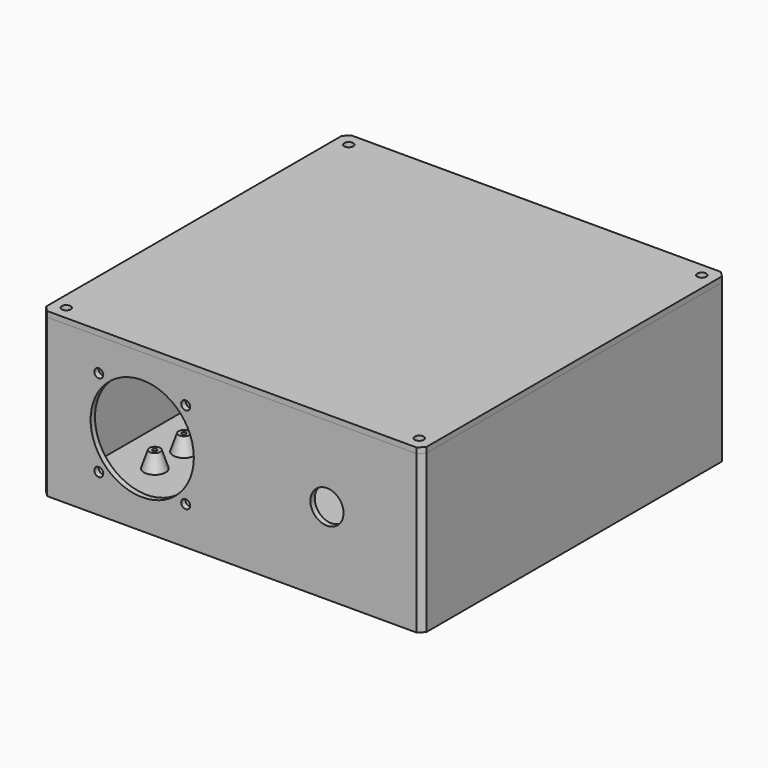
from build123d import *

# Parameters (mm, degrees)
SKETCH_W             = 140
SKETCH_H             = 140
PAD_DEPTH            = 2
SKETCH004_R          = 2.75
SKETCH004_R_2        = 1.25
PAD002_DEPTH         = 6
CHAMFER_SIZE2        = 5.999
CHAMFER_SIZE         = 2
SKETCH006_W          = 140
SKETCH006_H          = 140
SKETCH006_W_2        = 136
SKETCH006_H_2        = 136
PAD003_DEPTH         = 56
SKETCH007_W          = 10
SKETCH007_H          = 10
SKETCH007_R          = 1.25
PAD004_DEPTH         = 56
FILLET_R             = 5
SKETCH008_R          = 1.65
SKETCH008_R_2        = 19
POCKET_DEPTH         = 70.001
POCKET_DEPTH_BACK    = 70.001
SKETCH009_W          = 12.3
SKETCH009_H          = 12.2
POCKET001_DEPTH      = 140
SKETCH010_R          = 5.75
POCKET002_DEPTH      = 2
SKETCH011_R          = 6.1
POCKET003_DEPTH      = 140
SKETCH016_W          = 20
SKETCH016_H          = 12
POCKET005_DEPTH      = 140
CHAMFER001_SIZE      = 2
SKETCH019_R          = 2
SKETCH019_R_2        = 0.8
PAD008_DEPTH         = 6
CHAMFER004_SIZE2     = 5.9999
CHAMFER004_SIZE      = 2
SKETCH012_W          = 140
SKETCH012_H          = 140
PAD005_DEPTH         = 2
SKETCH013_W          = 120
SKETCH013_H          = 2
SKETCH013_W_2        = 2
SKETCH013_H_2        = 120
PAD006_DEPTH         = 2
SKETCH014_R          = 1.65
POCKET004_DEPTH      = 4.001
POCKET004_DEPTH_BACK = 0.001
CHAMFER002_SIZE      = 2
SKETCH017_W          = 22
SKETCH017_H          = 41.5
SKETCH017_W_2        = 16
SKETCH017_H_2        = 35.5
PAD007_DEPTH         = 25
SKETCH018_R          = 1.65
POCKET006_DEPTH      = 5
CHAMFER003_SIZE      = 1


with BuildPart() as box:
    # Sketch → Pad (new body)
    with BuildSketch(Plane.XY):
        Rectangle(SKETCH_W, SKETCH_H)
    extrude(amount=PAD_DEPTH)

    # Sketch004 → Pad002 (join)
    with BuildSketch(Plane(origin=(-34, 25, 2), x_dir=(0, 1, 0), z_dir=(0, 0, 1))):
        with Locations((-19.25, -34.7)):
            Circle(SKETCH004_R)
        with Locations((-19.25, -34.7)):
            Circle(SKETCH004_R_2, mode=Mode.SUBTRACT)
        with Locations((8.65, -34.7)):
            Circle(SKETCH004_R)
        with Locations((8.65, -34.7)):
            Circle(SKETCH004_R_2, mode=Mode.SUBTRACT)
        with Locations((-23.95, 17.2)):
            Circle(SKETCH004_R)
        with Locations((-23.95, 17.2)):
            Circle(SKETCH004_R_2, mode=Mode.SUBTRACT)
        with Locations((23.85, 16.1)):
            Circle(SKETCH004_R)
        with Locations((23.85, 16.1)):
            Circle(SKETCH004_R_2, mode=Mode.SUBTRACT)
    extrude(amount=PAD002_DEPTH)

    # Chamfer
    chamfer_edges = [box.edges().sort_by_distance(p)[0] for p in [
        (-50.1, 46.1, 2),
        (-51.2, -1.7, 2),
        (0.7, 30.9, 2),
        (0.7, 3, 2),
    ]]
    chamfer_side = box.faces().sort_by_distance((0.121685, -0.108773, 2))[0]
    chamfer(chamfer_edges, length=CHAMFER_SIZE, length2=CHAMFER_SIZE2, reference=chamfer_side)

    # Sketch006 → Pad003 (join)
    with BuildSketch(Plane.XY.offset(2)):
        Rectangle(SKETCH006_W, SKETCH006_H)
        Rectangle(SKETCH006_W_2, SKETCH006_H_2, mode=Mode.SUBTRACT)
    extrude(amount=PAD003_DEPTH)

    # Sketch007 → Pad004 (join)
    with BuildSketch(Plane.XY.offset(2)):
        with Locations((-65, 65)):
            Rectangle(SKETCH007_W, SKETCH007_H)
        with Locations((-65, 65)):
            Circle(SKETCH007_R, mode=Mode.SUBTRACT)
        with Locations((-65, -65)):
            Rectangle(SKETCH007_W, SKETCH007_H)
        with Locations((-65, -65)):
            Circle(SKETCH007_R, mode=Mode.SUBTRACT)
        with Locations((65, -65)):
            Rectangle(SKETCH007_W, SKETCH007_H)
        with Locations((65, -65)):
            Circle(SKETCH007_R, mode=Mode.SUBTRACT)
        with Locations((65, 65)):
            Rectangle(SKETCH007_W, SKETCH007_H)
        with Locations((65, 65)):
            Circle(SKETCH007_R, mode=Mode.SUBTRACT)
    extrude(amount=PAD004_DEPTH)

    # Fillet
    fillet_edges = [box.edges().sort_by_distance(p)[0] for p in [
        (60, -60, 30),
        (60, 60, 30),
        (-60, -60, 30),
        (-60, 60, 30),
    ]]
    fillet(fillet_edges, radius=FILLET_R)

    # Sketch008 → Pocket (cut, two sides)
    with BuildSketch(Plane.XZ) as pocket_sk:
        with Locations((-49, 46)):
            Circle(SKETCH008_R)
        with Locations((-17, 46)):
            Circle(SKETCH008_R)
        with Locations((-17, 14)):
            Circle(SKETCH008_R)
        with Locations((-49, 14)):
            Circle(SKETCH008_R)
        with Locations((-33, 30)):
            Circle(SKETCH008_R_2)
    extrude(amount=-POCKET_DEPTH, mode=Mode.SUBTRACT)
    extrude(pocket_sk.sketch, amount=POCKET_DEPTH_BACK, mode=Mode.SUBTRACT)

    # Sketch009 → Pocket001 (cut)
    with BuildSketch(Plane.YZ):
        with Locations((36, 15.5)):
            Rectangle(SKETCH009_W, SKETCH009_H)
    extrude(amount=-POCKET001_DEPTH, mode=Mode.SUBTRACT)

    # Sketch010 → Pocket002 (cut)
    with BuildSketch(Plane.XY):
        with Locations((35, 55)):
            Circle(SKETCH010_R)
    extrude(amount=POCKET002_DEPTH, mode=Mode.SUBTRACT)

    # Sketch011 → Pocket003 (cut)
    with BuildSketch(Plane.XZ):
        with Locations((35, 30)):
            Circle(SKETCH011_R)
    extrude(amount=POCKET003_DEPTH, mode=Mode.SUBTRACT)

    # Sketch016 → Pocket005 (cut)
    with BuildSketch(Plane.XZ):
        with Locations((35, 52)):
            Rectangle(SKETCH016_W, SKETCH016_H)
    extrude(amount=-POCKET005_DEPTH, mode=Mode.SUBTRACT)

    # Chamfer001
    chamfer001_edges = [box.edges().sort_by_distance(p)[0] for p in [
        (-70, -70, 29),
        (70, -70, 29),
        (70, 70, 29),
        (-70, 70, 29),
    ]]
    chamfer(chamfer001_edges, length=CHAMFER001_SIZE)

    # Sketch019 → Pad008 (join)
    with BuildSketch(Plane.XY.offset(2)):
        with Locations((-52.2, -26.8)):
            Circle(SKETCH019_R)
        with Locations((-52.2, -26.8)):
            Circle(SKETCH019_R_2, mode=Mode.SUBTRACT)
        with Locations((-52.2, -40.2)):
            Circle(SKETCH019_R)
        with Locations((-52.2, -40.2)):
            Circle(SKETCH019_R_2, mode=Mode.SUBTRACT)
    extrude(amount=PAD008_DEPTH)

    # Chamfer004
    chamfer004_edges = [box.edges().sort_by_distance(p)[0] for p in [
        (-54.2, -40.2, 2),
        (-54.2, -26.8, 2),
    ]]
    chamfer004_side = box.faces().sort_by_distance((0.266551, -0.627523, 2))[0]
    chamfer(chamfer004_edges, length=CHAMFER004_SIZE, length2=CHAMFER004_SIZE2, reference=chamfer004_side)


with BuildPart() as lid:
    # Sketch012 → Pad005 (new body)
    with BuildSketch(Plane.XY):
        Rectangle(SKETCH012_W, SKETCH012_H)
    extrude(amount=PAD005_DEPTH)

    # Sketch013 → Pad006 (join)
    with BuildSketch(Plane.XY):
        with Locations((0, 67)):
            Rectangle(SKETCH013_W, SKETCH013_H)
        with Locations((0, -67)):
            Rectangle(SKETCH013_W, SKETCH013_H)
        with Locations((-67, 0)):
            Rectangle(SKETCH013_W_2, SKETCH013_H_2)
        with Locations((67, 0)):
            Rectangle(SKETCH013_W_2, SKETCH013_H_2)
    extrude(amount=-PAD006_DEPTH)

    # Sketch014 → Pocket004 (cut, two sides)
    with BuildSketch(Plane.XY.offset(2)) as pocket004_sk:
        with Locations((-65, 65)):
            Circle(SKETCH014_R)
        with Locations((-65, -65)):
            Circle(SKETCH014_R)
        with Locations((65, 65)):
            Circle(SKETCH014_R)
        with Locations((65, -65)):
            Circle(SKETCH014_R)
    extrude(amount=-POCKET004_DEPTH, mode=Mode.SUBTRACT)
    extrude(pocket004_sk.sketch, amount=POCKET004_DEPTH_BACK, mode=Mode.SUBTRACT)

    # Chamfer002
    chamfer002_edges = [lid.edges().sort_by_distance(p)[0] for p in [
        (-70, -70, 1),
        (70, -70, 1),
        (70, 70, 1),
        (-70, 70, 1),
    ]]
    chamfer(chamfer002_edges, length=CHAMFER002_SIZE)


with BuildPart() as lid_1:
    # Body001 placement: moved
    add(lid.part.moved(Location((0, 0, 58))))


with BuildPart() as mount:
    # Sketch017 → Pad007 (new body)
    with BuildSketch(Plane.XZ):
        with Locations((0, 20.75)):
            Rectangle(SKETCH017_W, SKETCH017_H)
        with Locations((0, 20.75)):
            Rectangle(SKETCH017_W_2, SKETCH017_H_2, mode=Mode.SUBTRACT)
    extrude(amount=PAD007_DEPTH)

    # Sketch018 → Pocket006 (cut)
    with BuildSketch(Plane.XY.offset(41.5)):
        with Locations((0, -8)):
            Circle(SKETCH018_R)
    extrude(amount=-POCKET006_DEPTH, mode=Mode.SUBTRACT)

    # Chamfer003
    chamfer003_edges = [mount.edges().sort_by_distance(p)[0] for p in [
        (0, 0, 38.5),
        (8, 0, 20.75),
        (-8, 0, 20.75),
        (0, 0, 3),
        (11, -12.5, 0),
        (-11, -12.5, 0),
        (11, -12.5, 41.5),
        (-11, -12.5, 41.5),
        (0, 0, 41.5),
        (11, 0, 20.75),
        (0, 0, 0),
        (-11, 0, 20.75),
    ]]
    chamfer(chamfer003_edges, length=CHAMFER003_SIZE)


with BuildPart() as mount_1:
    # Body002 placement: moved
    add(mount.part.moved(Location((0, 95, 0))))


solid = Compound([box.part, lid_1.part, mount_1.part])
